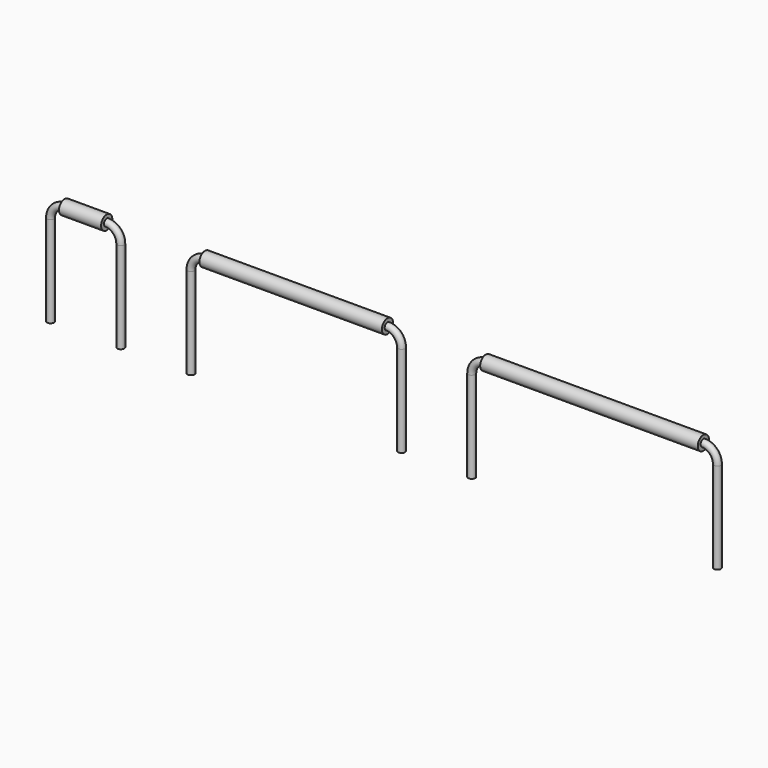
from build123d import *

# Parameters (mm, degrees)
F1_R   = 0.25
F4_R   = 0.25
F7_W   = 13
F7_H   = 0.5
F7_W_2 = 15.5


with BuildPart() as f2:
    # F2: sweep along a path in F0
    with BuildLine(Plane.XZ) as f2_path:
        Line((5, 0), (5, 6.5))
        ThreePointArc((5, 6.5), (5.2928932188, 7.2071067812), (6, 7.5))
        Line((6, 7.5), (9, 7.5))
        ThreePointArc((9, 7.5), (9.7071067812, 7.2071067812), (10, 6.5))
        Line((10, 6.5), (10, 0))
    # F1 (on Top) → F2 (sweep)
    with BuildSketch(Plane.XY):
        with Locations((5, 0)):
            Circle(F1_R)
    sweep(path=f2_path.line)


with BuildPart() as f5:
    # F5: sweep along a path in F3
    with BuildLine(Plane.XZ) as f5_path:
        Line((15, 0), (15, 6.5))
        ThreePointArc((15, 6.5), (15.2928932188, 7.2071067812), (16, 7.5))
        Line((16, 7.5), (29, 7.5))
        ThreePointArc((29, 7.5), (29.7071067812, 7.2071067812), (30, 6.5))
        Line((30, 6.5), (30, 0))
    # F4 (on Top) → F5 (sweep)
    with BuildSketch(Plane.XY):
        with Locations((15, 0)):
            Circle(F4_R)
    sweep(path=f5_path.line)


with BuildPart() as f6:
    # F6: sweep along a path in F3
    with BuildLine(Plane.XZ) as f6_path:
        Line((52.5, 0), (52.5, 6.5))
        ThreePointArc((52.5, 6.5), (52.2071067812, 7.2071067812), (51.5, 7.5))
        Line((51.5, 7.5), (36, 7.5))
        ThreePointArc((36, 7.5), (35.2928932188, 7.2071067812), (35, 6.5))
        Line((35, 6.5), (35, 0))
    # F4 (on Top) → F6 (sweep)
    with BuildSketch(Plane.XY):
        with Locations((35, 0)):
            Circle(F4_R)
    sweep(path=f6_path.line)


with BuildPart() as f8:
    # F7 (on Front) → F8 (revolve)
    with BuildSketch(Plane.XZ):
        Polygon((6, 8), (6, 7.75), (6, 7.5), (9, 7.5), (9, 7.75), (9, 8), align=None)
    revolve(axis=Axis((28.7184525514, 0, 7.5), (1, 0, 0)))


with BuildPart() as f8b:
    # F7 (on Front) → F8, piece 2 (revolve)
    with BuildSketch(Plane.XZ):
        with Locations((22.5, 7.75)):
            Rectangle(F7_W, F7_H)
    revolve(axis=Axis((28.7184525514, 0, 7.5), (1, 0, 0)))


with BuildPart() as f8c:
    # F7 (on Front) → F8, piece 3 (revolve)
    with BuildSketch(Plane.XZ):
        with Locations((43.75, 7.75)):
            Rectangle(F7_W_2, F7_H)
    revolve(axis=Axis((28.7184525514, 0, 7.5), (1, 0, 0)))


solid = Compound([f2.part, f5.part, f6.part, f8.part, f8b.part, f8c.part])
